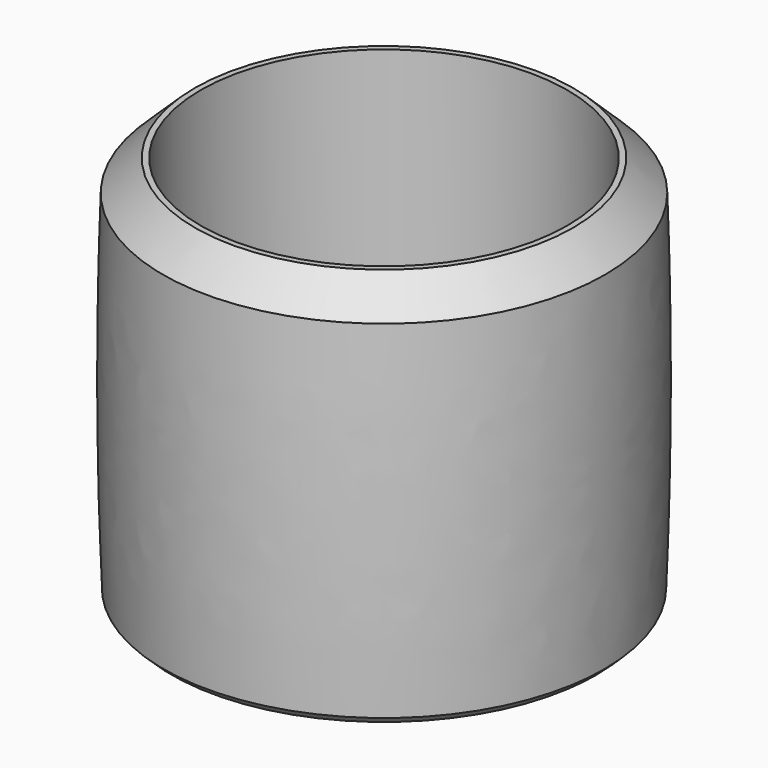
from build123d import *

# Parameters (mm, degrees)
SKETCH_R        = 28.5
SKETCH001_R     = 29
SKETCH002_R     = 28.5
SKETCH003_R     = 23.75
POCKET_DEPTH    = 50.001
CHAMFER_SIZE    = 4
CHAMFER001_SIZE = 1


with BuildPart() as part:
    # Sketch → AdditiveLoft section 0
    with BuildSketch(Plane.XY):
        Circle(SKETCH_R)
    # Sketch001 → AdditiveLoft section 1
    with BuildSketch(Plane.XY.offset(25)):
        Circle(SKETCH001_R)
    # Sketch002 → AdditiveLoft section 2
    with BuildSketch(Plane.XY.offset(50)):
        Circle(SKETCH002_R)
    loft()

    # Sketch003 → Pocket (cut, through all)
    with BuildSketch(Plane.XY):
        Circle(SKETCH003_R)
    extrude(amount=POCKET_DEPTH, mode=Mode.SUBTRACT)

    # Chamfer
    chamfer_edges = [part.edges().sort_by_distance(p)[0] for p in [
        (-28.5, 0, 50),
    ]]
    chamfer(chamfer_edges, length=CHAMFER_SIZE)

    # Chamfer001
    chamfer001_edges = [part.edges().sort_by_distance(p)[0] for p in [
        (-28.5, 0, 0),
    ]]
    chamfer(chamfer001_edges, length=CHAMFER001_SIZE)


solid = part.part
